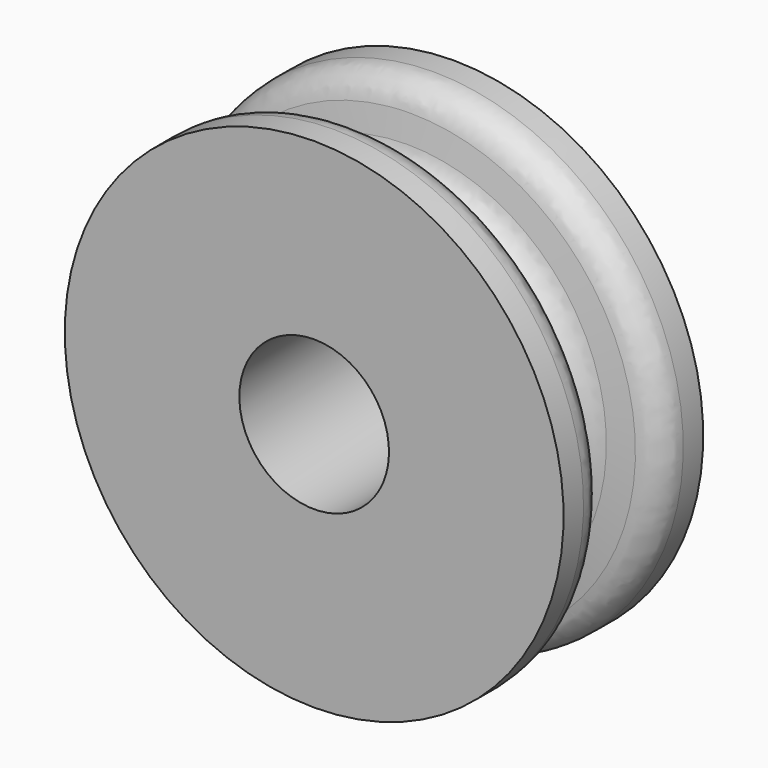
from build123d import *

# Parameters (mm, degrees)
F2_R = 0.59


with BuildPart() as f1:
    # F0 (on Right) → F1 (revolve)
    with BuildSketch(Plane.YZ):
        Polygon((0, 5), (0, 1.5), (3.5, 1.5), (3.5, 5), (2.5, 5), (2.25, 3.5), (1.25, 3.5), (1, 5), align=None)
    revolve(axis=Axis((0, 1.75, 0), (0, 1, 0)))

    # F2
    f2_edges = [f1.edges().sort_by_distance(p)[0] for p in [
        (0, 1.25, -3.5),
        (0, 1, -5),
        (0, 1.125, 4.25),
        (0, 2.5, -5),
        (0, 2.25, -3.5),
        (0, 2.375, 4.25),
    ]]
    fillet(f2_edges, radius=F2_R)


solid = f1.part
